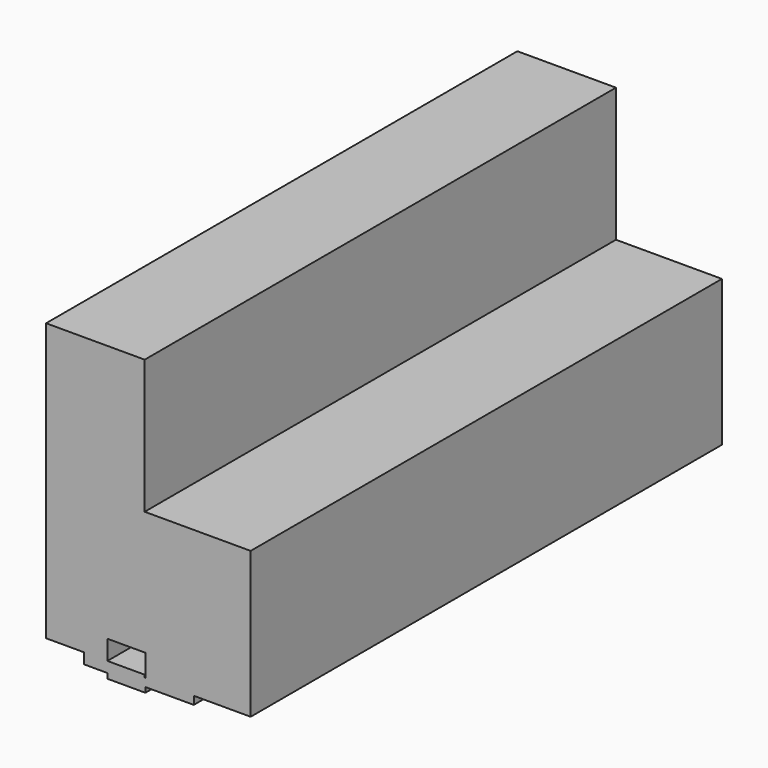
from build123d import *

# Parameters (mm, degrees)
F0_W     = 0.9875223041
F0_H     = 0.4511103034
F0_W_2   = 1.6117542982
F0_H_2   = 0.2151634544
F0_W_3   = 2.0527206361
F0_H_3   = 0.3410726786
F1_DEPTH = 25


with BuildPart() as f1:
    # F0 (on Front) → F1 (new body)
    with BuildSketch(Plane.XZ):
        Polygon((-5.0200670958, 17.5655037165), (-9.5167346299, 17.5655037165), (-9.5167346299, 15.2649758384), (-7.4343085289, 15.2649758384), (-7.4343085289, 11.3675463945), (-5.0200670958, 11.3675463945), align=None)
        Polygon((-9.5167346299, 23.2478547841), (-13.7016326189, 23.2478547841), (-13.7016326189, 11.4775840193), (-12.0863057673, 11.4775840193), (-12.0863057673, 15.2649758384), (-9.5167346299, 15.2649758384), (-9.5167346299, 17.5655037165), align=None)
        Polygon((-5.0200670958, 17.5655037165), (-9.5167346299, 17.5655037165), (-9.5167346299, 15.2649758384), (-7.4343085289, 15.2649758384), (-7.4343085289, 11.3675463945), (-5.0200670958, 11.3675463945), align=None)
        Polygon((-12.0863057673, 15.2649758384), (-12.0863057673, 11.4775840193), (-11.0987834632, 11.4775840193), (-11.0987834632, 12.3073123395), (-9.5167346299, 12.3073123395), (-9.5167346299, 15.2649758384), align=None)
        with Locations((-11.5925446153, 11.2520288676)):
            Rectangle(F0_W, F0_H)
        Polygon((-7.4343085289, 15.2649758384), (-9.5167346299, 15.2649758384), (-9.5167346299, 12.3073123395), (-9.487029165, 12.3073123395), (-9.487029165, 11.3675463945), (-7.4343085289, 11.3675463945), align=None)
        Polygon((-9.5167346299, 11.4775840193), (-11.0987834632, 11.4775840193), (-11.0987834632, 11.0264737159), (-9.487029165, 11.0264737159), (-9.487029165, 11.3675463945), (-9.5167346299, 11.3675463945), align=None)
        with Locations((-10.2929063141, 10.9188919887)):
            Rectangle(F0_W_2, F0_H_2)
        with Locations((-8.460668847, 11.1970100552)):
            Rectangle(F0_W_3, F0_H_3)
    extrude(amount=F1_DEPTH)


solid = f1.part
